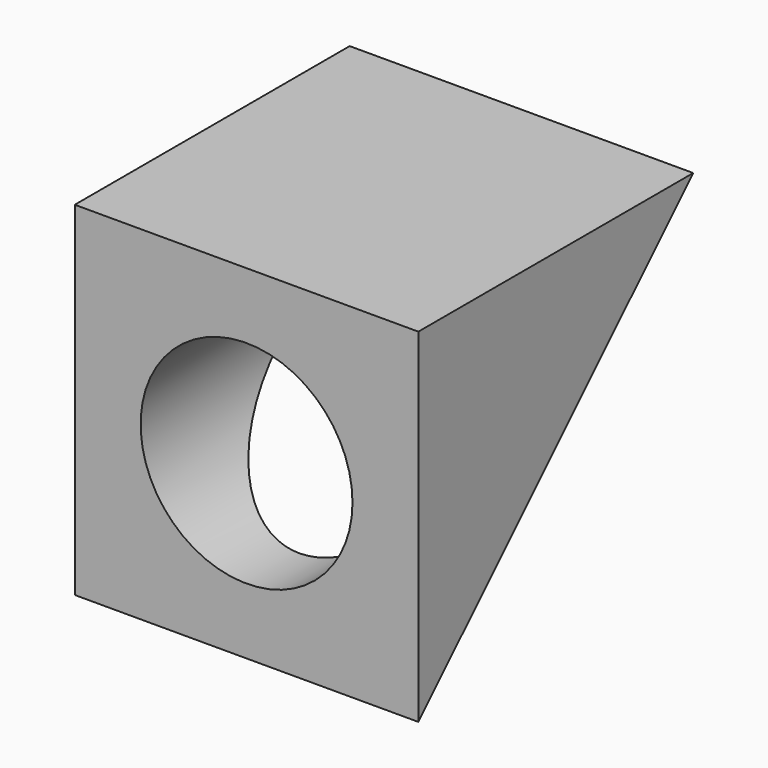
from build123d import *

# Parameters (mm, degrees)
F0_W     = 76.094658
F0_H     = 76.094658
F1_DEPTH = 76.0984
F3_DEPTH = 76.0984
F4_R     = 23.46217
F5_DEPTH = 63.5


with BuildPart() as f1:
    # F0 (on Front) → F1 (new body)
    with BuildSketch(Plane.XZ):
        Rectangle(F0_W, F0_H)
    extrude(amount=F1_DEPTH)

    # F2 (on face) → F3 (cut)
    with BuildSketch(Plane(origin=(-38.047329, 0, 0), x_dir=(0, -1, 0), z_dir=(-1, 0, 0))):
        Polygon((76.0984, -38.047329), (0, 38.047329), (0, -38.047329), align=None)
    extrude(amount=-F3_DEPTH, mode=Mode.SUBTRACT)

    # F4 (on face) → F5 (cut)
    with BuildSketch(Plane.XZ.offset(76.0984)):
        Circle(F4_R)
    extrude(amount=-F5_DEPTH, mode=Mode.SUBTRACT)


solid = f1.part
